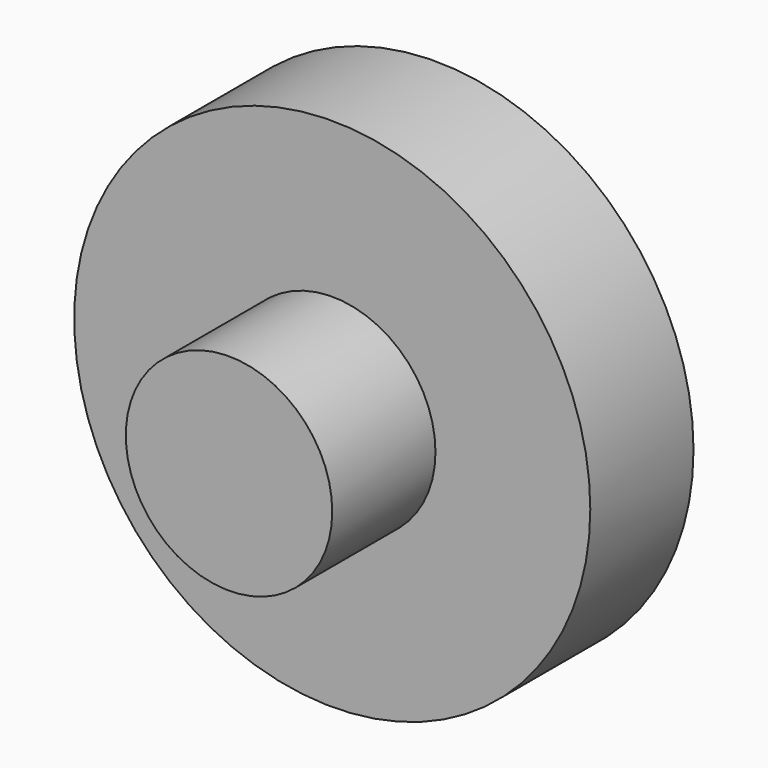
from build123d import *

# Parameters (mm, degrees)
F0_R          = 10
F0_R_2        = 4
F1_DEPTH      = 5
F2_DEPTH      = 10
F2_DEPTH_BACK = 5


with BuildPart() as f1:
    # F0 (on Front) → F1 (new body)
    with BuildSketch(Plane.XZ):
        with Locations((-46.315201, 31.301711)):
            Circle(F0_R)
        with Locations((-46.315201, 31.301711)):
            Circle(F0_R_2, mode=Mode.SUBTRACT)
    extrude(amount=F1_DEPTH)

    # F0 (on Front) → F2 (join, two sides)
    with BuildSketch(Plane.XZ) as f2_sk:
        with Locations((-46.315201, 31.301711)):
            Circle(F0_R_2)
    extrude(amount=F2_DEPTH)
    extrude(f2_sk.sketch, amount=-F2_DEPTH_BACK)


solid = f1.part
